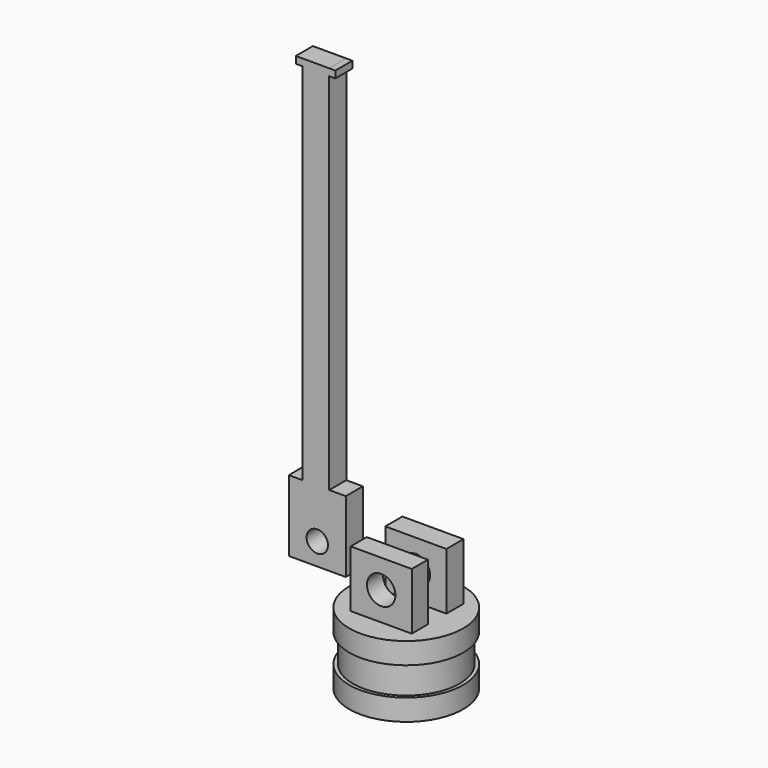
from build123d import *

# Parameters (mm, degrees)
F3_DEPTH = 8
F5_D     = 4
F6_W     = 3.773432
F6_H     = 51.173568
F6_W_2   = 0.854586
F6_H_2   = 0.973835
F7_DEPTH = 3
F9_D     = 3


with BuildPart() as f1:
    # F0 (on Front) → F1 (revolve)
    with BuildSketch(Plane.XZ):
        Polygon((0, -1.468786), (0, 8.531214), (-8, 8.531214), (-8, 5.531214), (-7.5, 5.531214), (-7.5, 1.531214), (-8, 1.531214), (-8, -1.468786), align=None)
    revolve(axis=Axis((0, 0, 3.531214), (0, 0, 1)))

    # F2 (on face) → F3 (join)
    with BuildSketch(Plane.XY.offset(8.531214)):
        Polygon((-4.214561, -4.5), (-3, -4.5), (4.37242, -4.5), (4.37242, -1.666163), (-3, -1.666163), (-4.214561, -1.666163), align=None)
        Polygon((4.37242, 4.586634), (-2.714561, 4.586634), (-4.214561, 4.586634), (-4.214561, 1.586634), (-2.714561, 1.586634), (4.37242, 1.586634), align=None)
    extrude(amount=F3_DEPTH)

    # F5 (through all)
    with Locations(Plane.XZ.offset(4.5)):
        with Locations((0.078929, 12.531214)):
            Hole(F5_D / 2)


with BuildPart() as f7:
    # F6 (on Front) → F7 (new body)
    with BuildSketch(Plane.XZ):
        Polygon((-14.096678, 11.520622), (-6.096678, 11.520622), (-6.096678, 21.520622), (-8.419598, 21.520622), (-12.19303, 21.520622), (-14.096678, 21.520622), align=None)
        with Locations((-10.306314, 47.107406)):
            Rectangle(F6_W, F6_H)
        Polygon((-12.19303, 72.69419), (-8.419598, 72.69419), (-8.419598, 73.668025), (-13.119084, 73.668025), (-13.119084, 72.69419), align=None)
        with Locations((-7.992305, 73.181107)):
            Rectangle(F6_W_2, F6_H_2)
    extrude(amount=F7_DEPTH)

    # F9 (through all)
    with Locations(Plane(origin=(0, 0, 0), x_dir=(-1, 0, 0), z_dir=(0, 1, 0))):
        with Locations((10.096678, 14.625018)):
            Hole(F9_D / 2)


solid = Compound([f1.part, f7.part])
